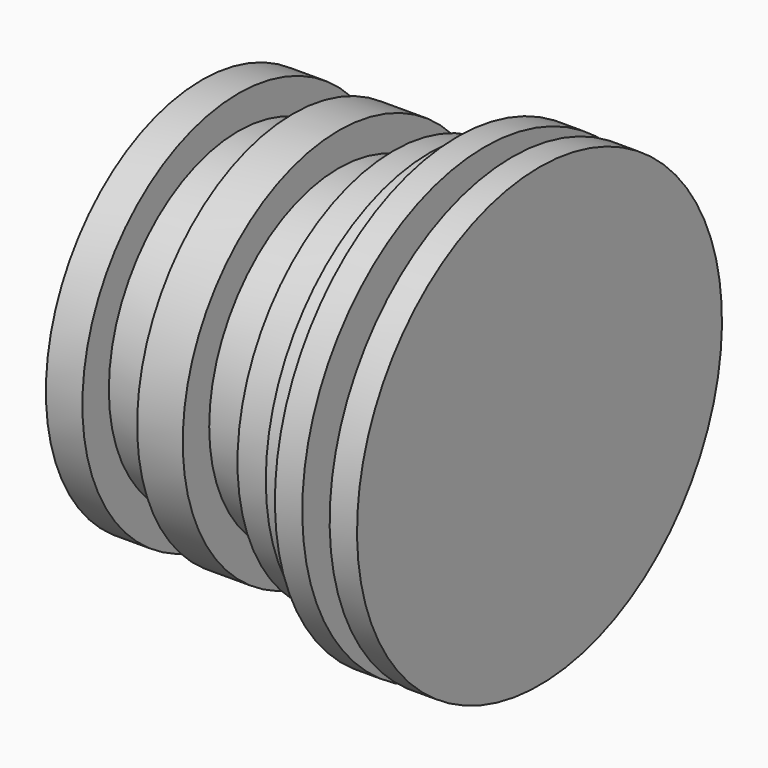
from build123d import *


with BuildPart() as f1:
    # F0 (on Front) → F1 (revolve)
    with BuildSketch(Plane.XZ):
        Polygon((-5.4, 4.275), (-6.2, 4.275), (-6.2, 0), (1.2, 0), (1.2, 5), (0.6, 5), (0.6, 3.5), (0, 3.5), (0, 5), (-0.6, 5), (-0.6, 4.5), (-1.2, 4.5), (-1.2, 4.275), (-2, 4.275), (-2, 3.55), (-3.2, 3.55), (-3.2, 4.275), (-4.2, 4.275), (-4.2, 3.55), (-5.4, 3.55), align=None)
    revolve(axis=Axis((-4.192172, 0, 0), (1, 0, 0)))


solid = f1.part
